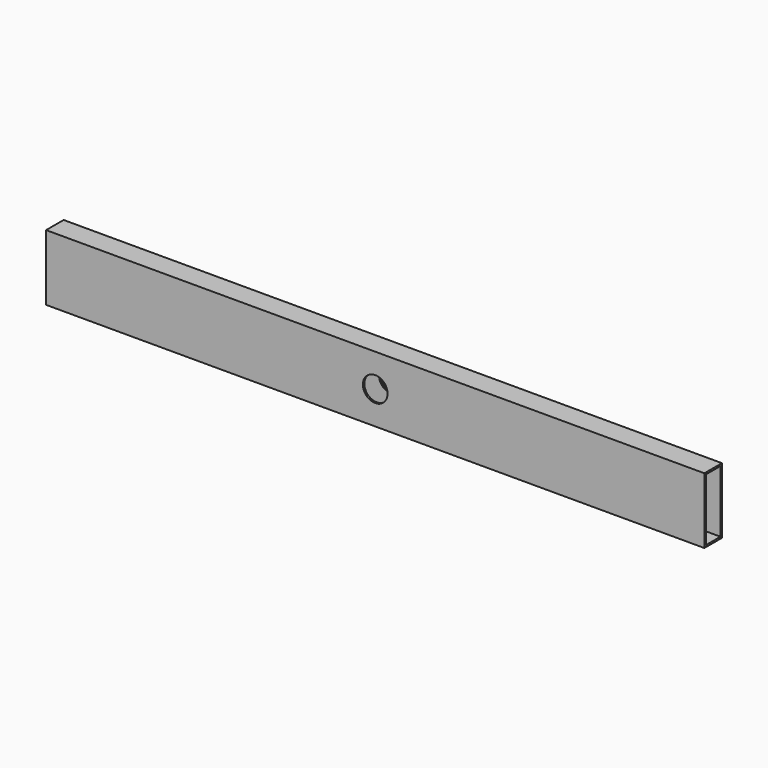
from build123d import *

# Parameters (mm, degrees)
F0_W     = 25.4
F0_H     = 76.2
F0_W_2   = 21.1836
F0_H_2   = 71.9836
F1_DEPTH = 381
F2_R     = 14.2875
F3_DEPTH = 25.401


with BuildPart() as f1:
    # F0 (on Right) → F1 (new body, symmetric)
    with BuildSketch(Plane.YZ):
        Rectangle(F0_W, F0_H)
        Rectangle(F0_W_2, F0_H_2, mode=Mode.SUBTRACT)
    extrude(amount=F1_DEPTH, both=True)

    # F2 (on face) → F3 (cut, through all)
    with BuildSketch(Plane.XZ.offset(12.7)):
        Circle(F2_R)
    extrude(amount=-F3_DEPTH, mode=Mode.SUBTRACT)


solid = f1.part
